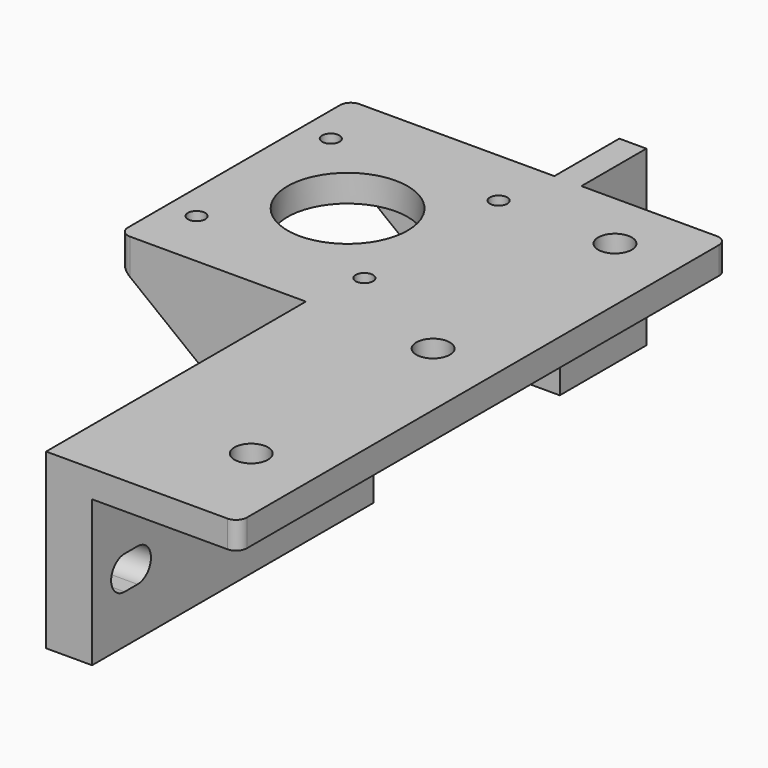
from build123d import *

# Parameters (mm, degrees)
PAD_DEPTH         = 60
PAD_DEPTH_BACK    = 53
SKETCH001_R       = 11.1
SKETCH001_R_2     = 3.1
SKETCH001_R_3     = 1.6
SKETCH001_W       = 34.5
SKETCH001_H       = 60
POCKET_DEPTH      = 27.001
POCKET_DEPTH_BACK = -5.001
POCKET001_DEPTH   = 43.001
PAD001_DEPTH      = 5
PAD002_DEPTH      = 5
SKETCH005_W       = 43
SKETCH005_H       = 27
POCKET002_DEPTH   = 43.001
SKETCH006_W       = 5
SKETCH006_H       = 32
PAD003_DEPTH      = 15
SKETCH007_R       = 3.1
POCKET003_DEPTH   = 43.001
FILLET_R          = 2


with BuildPart() as part:
    # Sketch → Pad (new body, two sides)
    with BuildSketch(Plane.XZ) as pad_sk:
        Polygon((-43, 5), (27, 5), (27, 0), (0, 0), (0, -27), (-8.5, -27), (-8.5, 0), (-43, 0), align=None)
    extrude(amount=PAD_DEPTH)
    extrude(pad_sk.sketch, amount=-PAD_DEPTH_BACK)

    # Sketch001 → Pocket (cut, two sides)
    with BuildSketch(Plane.XY) as pocket_sk:
        with Locations((-22, 26.5)):
            Circle(SKETCH001_R)
        with Locations((15, 42)):
            Circle(SKETCH001_R_2)
        with Locations((15, -42)):
            Circle(SKETCH001_R_2)
        with Locations((15, 0)):
            Circle(SKETCH001_R_2)
        with Locations((-37.5, 42)):
            Circle(SKETCH001_R_3)
        with Locations((-6.5, 42)):
            Circle(SKETCH001_R_3)
        with Locations((-6.5, 11)):
            Circle(SKETCH001_R_3)
        with Locations((-37.5, 11)):
            Circle(SKETCH001_R_3)
        with Locations((-25.75, -30)):
            Rectangle(SKETCH001_W, SKETCH001_H)
    extrude(amount=-POCKET_DEPTH, mode=Mode.SUBTRACT)
    extrude(pocket_sk.sketch, amount=-POCKET_DEPTH_BACK, mode=Mode.SUBTRACT)

    # Sketch002 → Pocket001 (cut, through all)
    with BuildSketch(Plane.YZ):
        with BuildLine():
            ThreePointArc((-52.5, -11.9), (-55.6, -15), (-52.5, -18.1))
            Line((-52.5, -18.1), (-49.5, -18.1))
            ThreePointArc((-49.5, -18.1), (-46.4, -15), (-49.5, -11.9))
            Line((-52.5, -11.9), (-49.5, -11.9))
        make_face()
        with BuildLine():
            ThreePointArc((-10.5, -11.9), (-13.6, -15), (-10.5, -18.1))
            Line((-10.5, -18.1), (-7.5, -18.1))
            ThreePointArc((-7.5, -18.1), (-4.4, -15), (-7.5, -11.9))
            Line((-10.5, -11.9), (-7.5, -11.9))
        make_face()
    extrude(amount=-POCKET001_DEPTH, mode=Mode.SUBTRACT)

    # Sketch003 → Pad001 (join)
    with BuildSketch(Plane.XZ):
        Polygon((-43, 5), (-43, 0), (-8.5, -27), (0, -27), (0, 5), align=None)
    extrude(amount=-PAD001_DEPTH)

    # Sketch004 (on Face1 of Pad001) → Pad002 (join)
    with BuildSketch(Plane(origin=(0, 53, 0), x_dir=(1, 0, 0), z_dir=(0, 1, 0))):
        Polygon((-43, -5), (0, -5), (0, 27), (-8.5, 27), (-43, 0), align=None)
    extrude(amount=-PAD002_DEPTH)

    # Sketch005 → Pocket002 (cut, through all)
    with BuildSketch(Plane.YZ):
        with Locations((26.5, -13.5)):
            Rectangle(SKETCH005_W, SKETCH005_H)
    extrude(amount=-POCKET002_DEPTH, mode=Mode.SUBTRACT)

    # Sketch006 (on Face4 of Pocket002) → Pad003 (join)
    with BuildSketch(Plane(origin=(0, 53, 0), x_dir=(1, 0, 0), z_dir=(0, 1, 0))):
        with Locations((-2.5, 11)):
            Rectangle(SKETCH006_W, SKETCH006_H)
    extrude(amount=PAD003_DEPTH)

    # Sketch007 → Pocket003 (cut, through all)
    with BuildSketch(Plane.YZ):
        with Locations((60.5, -15)):
            Circle(SKETCH007_R)
    extrude(amount=-POCKET003_DEPTH, mode=Mode.SUBTRACT)

    # Fillet
    fillet_edges = [part.edges().sort_by_distance(p)[0] for p in [
        (27, -60, 2.5),
        (27, 53, 2.5),
        (-43, 0, 2.5),
        (-43, 53, 2.5),
    ]]
    fillet(fillet_edges, radius=FILLET_R)


solid = part.part
